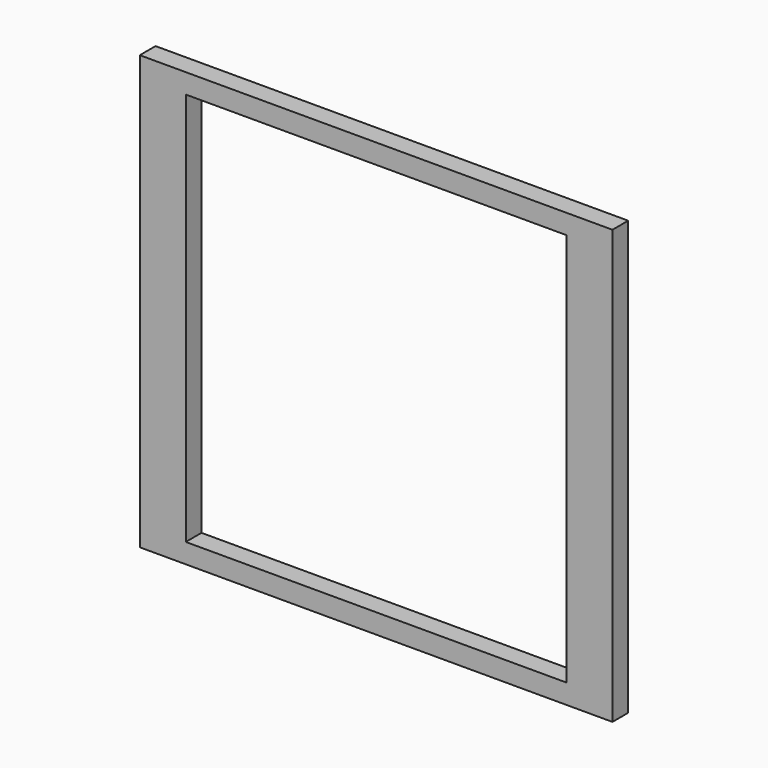
from build123d import *

# Parameters (mm, degrees)
F0_W     = 88.9
F0_H     = 762
F1_DEPTH = 38.1
F2_W     = 914.4
F2_H     = 38.1
F3_DEPTH = 38.1
F4_W     = 88.9
F4_H     = 762
F5_DEPTH = 38.1
F6_W     = 914.4
F6_H     = 38.1
F7_DEPTH = 38.1


with BuildPart() as f1:
    # F0 (on Front) → F1 (new body)
    with BuildSketch(Plane.XZ):
        Rectangle(F0_W, F0_H)
    extrude(amount=F1_DEPTH)

    # F2 (on Front) → F3 (join)
    with BuildSketch(Plane.XZ):
        with Locations((412.75, 400.05)):
            Rectangle(F2_W, F2_H)
    extrude(amount=F3_DEPTH)

    # F4 (on Front) → F5 (join)
    with BuildSketch(Plane.XZ):
        with Locations((825.5, 0)):
            Rectangle(F4_W, F4_H)
    extrude(amount=F5_DEPTH)

    # F6 (on Front) → F7 (join)
    with BuildSketch(Plane.XZ):
        with Locations((412.75, -400.05)):
            Rectangle(F6_W, F6_H)
    extrude(amount=F7_DEPTH)


solid = f1.part
